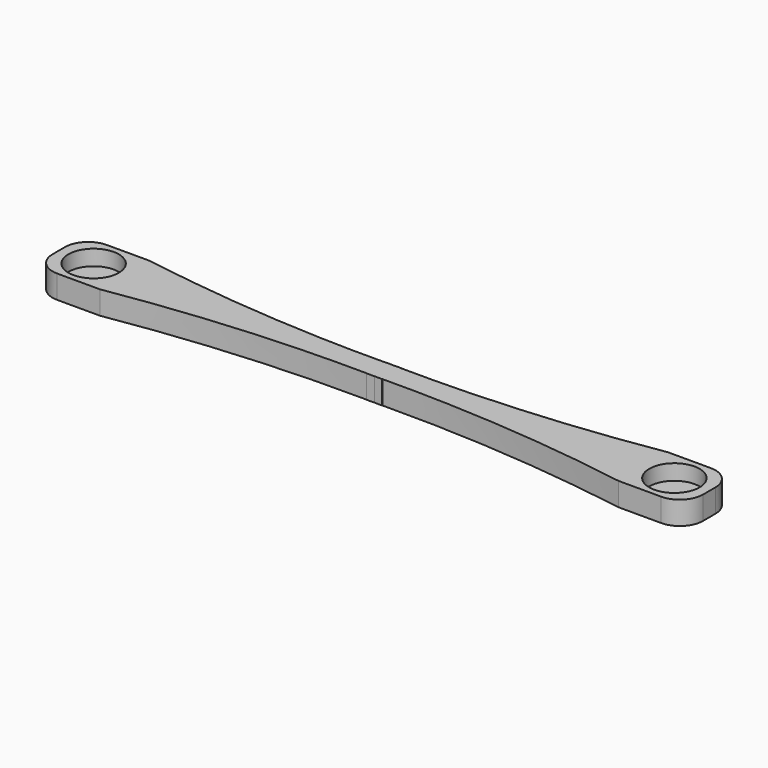
from build123d import *

# Parameters (mm, degrees)
BOX129_W                          = 90
BOX129_H                          = 9
BOX129_DEPTH                      = 4
BOX128_W                          = 40
BOX128_H                          = 10
BOX128_DEPTH                      = 10
CYLINDER218_R                     = 3.25
CYLINDER218_DEPTH                 = 3.5
CYLINDER219_R                     = 0.6
CYLINDER219_DEPTH                 = 9.5
CYLINDER214_R                     = 0.6
CYLINDER214_DEPTH                 = 9.5
CYLINDER216_R                     = 3.25
CYLINDER216_DEPTH                 = 3.5
PAD019_DEPTH                      = 4
FILLET088_R                       = 3
PART_MIRRORING005_PLACEMENT_ANGLE = 180
BOX127_W                          = 40
BOX127_H                          = 10
BOX127_DEPTH                      = 10
CYLINDER220_R                     = 3.25
CYLINDER220_DEPTH                 = 3.5
CYLINDER213_R                     = 0.6
CYLINDER213_DEPTH                 = 9.5
CYLINDER215_R                     = 0.6
CYLINDER215_DEPTH                 = 9.5
CYLINDER217_R                     = 3.25
CYLINDER217_DEPTH                 = 3.5
PAD018_DEPTH                      = 4
FILLET089_R                       = 3


with BuildPart() as obj1:
    # Box129 → Box129 (new body)
    with BuildSketch(Plane(origin=(-63, -27.5, -41), x_dir=(1, 0, 0), z_dir=(0, 0, 1))):
        with Locations((45, 4.5)):
            Rectangle(BOX129_W, BOX129_H)
    extrude(amount=BOX129_DEPTH)


with BuildPart() as obj2:
    # Box128 → Box128 (new body)
    with BuildSketch(Plane(origin=(-14, -72, -42), x_dir=(1, 0, 0), z_dir=(0, 0, 1))):
        with Locations((20, 5)):
            Rectangle(BOX128_W, BOX128_H)
    extrude(amount=BOX128_DEPTH)


with BuildPart() as zylinder218:
    # Cylinder218 → Cylinder218 (new body)
    with BuildSketch(Plane(origin=(-52.5, 23, -36), x_dir=(1, 0, 0), z_dir=(0, 0, 1))):
        Circle(CYLINDER218_R)
    extrude(amount=CYLINDER218_DEPTH)


with BuildPart() as zylinder219:
    # Cylinder219 → Cylinder219 (new body)
    with BuildSketch(Plane(origin=(16.5, 23, -39), x_dir=(1, 0, 0), z_dir=(0, 0, 1))):
        Circle(CYLINDER219_R)
    extrude(amount=CYLINDER219_DEPTH)


with BuildPart() as zylinder214:
    # Cylinder214 → Cylinder214 (new body)
    with BuildSketch(Plane(origin=(-52.5, 23, -39), x_dir=(1, 0, 0), z_dir=(0, 0, 1))):
        Circle(CYLINDER214_R)
    extrude(amount=CYLINDER214_DEPTH)


with BuildPart() as fusion138:
    # Cylinder216 → Cylinder216 (new body)
    with BuildSketch(Plane(origin=(16.5, 23, -36), x_dir=(1, 0, 0), z_dir=(0, 0, 1))):
        Circle(CYLINDER216_R)
    extrude(amount=CYLINDER216_DEPTH)

    # Fusion138: union Zylinder218, Zylinder219, Zylinder214
    add(zylinder218.part)
    add(zylinder219.part)
    add(zylinder214.part)


with BuildPart() as cut096:
    # Sketch018 → Pad019 (new body)
    with BuildSketch(Plane.XY):
        with BuildLine():
            add(Edge.make_bspline(
                [(-48.5, 19), (-18, 24), (12.5, 19)],
                knots=[0, 0, 0, 1, 1, 1], degree=2))
            Line((-48.5, 19), (-57, 19))
            Line((-57, 19), (-57, 27))
            Line((-57, 27), (-48.5, 27))
            add(Edge.make_bspline(
                [(-48.5, 27), (-18, 22), (12.5, 27)],
                knots=[0, 0, 0, 1, 1, 1], degree=2))
            Line((12.5, 27), (21, 27))
            Line((21, 27), (21, 19))
            Line((21, 19), (12.5, 19))
        make_face()
    extrude(amount=PAD019_DEPTH)


with BuildPart() as cut096_1:
    # Body009 placement: moved
    add(cut096.part.moved(Location((0, 0, -38))))

    # Cut094: cut Fusion138
    add(fusion138.part, mode=Mode.SUBTRACT)

    # Fillet088
    fillet088_edges = [cut096_1.edges().sort_by_distance(p)[0] for p in [
        (-57, 19, -36),
        (21, 19, -36),
        (-57, 27, -36),
        (21, 27, -36),
    ]]
    fillet(fillet088_edges, radius=FILLET088_R)


with BuildPart() as cut096_2:
    # Fillet088 placement: moved
    add(cut096_1.part.moved(Location((0, -90, 0))))

    # Cut096: cut obj2
    add(obj2.part, mode=Mode.SUBTRACT)


with BuildPart() as cut096_3:
    # Cut096 placement: moved
    add(cut096_2.part.moved(Location((-5, 35, 0))))


with BuildPart() as part_mirroring005:
    # Part__Mirroring005: instance of Cut096
    add(cut096_3.part.mirror(Plane(origin=(-40.5, -8e-06, -36), x_dir=(1, 0, 0), z_dir=(0, 1, 0))))


with BuildPart() as part_mirroring005_1:
    # Part__Mirroring005 placement: moved
    add(part_mirroring005.part.moved(Location((-38, 9, 0))).rotate(Axis((-38, 9, 0), (0, 0, 1)), PART_MIRRORING005_PLACEMENT_ANGLE))


with BuildPart() as obj3:
    # Box127 → Box127 (new body)
    with BuildSketch(Plane(origin=(-14, -72, -42), x_dir=(1, 0, 0), z_dir=(0, 0, 1))):
        with Locations((20, 5)):
            Rectangle(BOX127_W, BOX127_H)
    extrude(amount=BOX127_DEPTH)


with BuildPart() as zylinder220:
    # Cylinder220 → Cylinder220 (new body)
    with BuildSketch(Plane(origin=(-52.5, 23, -36), x_dir=(1, 0, 0), z_dir=(0, 0, 1))):
        Circle(CYLINDER220_R)
    extrude(amount=CYLINDER220_DEPTH)


with BuildPart() as zylinder213:
    # Cylinder213 → Cylinder213 (new body)
    with BuildSketch(Plane(origin=(16.5, 23, -39), x_dir=(1, 0, 0), z_dir=(0, 0, 1))):
        Circle(CYLINDER213_R)
    extrude(amount=CYLINDER213_DEPTH)


with BuildPart() as zylinder215:
    # Cylinder215 → Cylinder215 (new body)
    with BuildSketch(Plane(origin=(-52.5, 23, -39), x_dir=(1, 0, 0), z_dir=(0, 0, 1))):
        Circle(CYLINDER215_R)
    extrude(amount=CYLINDER215_DEPTH)


with BuildPart() as fusion137:
    # Cylinder217 → Cylinder217 (new body)
    with BuildSketch(Plane(origin=(16.5, 23, -36), x_dir=(1, 0, 0), z_dir=(0, 0, 1))):
        Circle(CYLINDER217_R)
    extrude(amount=CYLINDER217_DEPTH)

    # Fusion137: union Zylinder220, Zylinder213, Zylinder215
    add(zylinder220.part)
    add(zylinder213.part)
    add(zylinder215.part)


with BuildPart() as cut092:
    # Sketch019 → Pad018 (new body)
    with BuildSketch(Plane.XY):
        with BuildLine():
            add(Edge.make_bspline(
                [(-48.5, 19), (-18, 24), (12.5, 19)],
                knots=[0, 0, 0, 1, 1, 1], degree=2))
            Line((-48.5, 19), (-57, 19))
            Line((-57, 19), (-57, 27))
            Line((-57, 27), (-48.5, 27))
            add(Edge.make_bspline(
                [(-48.5, 27), (-18, 22), (12.5, 27)],
                knots=[0, 0, 0, 1, 1, 1], degree=2))
            Line((12.5, 27), (21, 27))
            Line((21, 27), (21, 19))
            Line((21, 19), (12.5, 19))
        make_face()
    extrude(amount=PAD018_DEPTH)


with BuildPart() as cut092_1:
    # Body010 placement: moved
    add(cut092.part.moved(Location((0, 0, -38))))

    # Cut095: cut Fusion137
    add(fusion137.part, mode=Mode.SUBTRACT)

    # Fillet089
    fillet089_edges = [cut092_1.edges().sort_by_distance(p)[0] for p in [
        (-57, 19, -36),
        (21, 19, -36),
        (-57, 27, -36),
        (21, 27, -36),
    ]]
    fillet(fillet089_edges, radius=FILLET089_R)


with BuildPart() as cut092_2:
    # Fillet089 placement: moved
    add(cut092_1.part.moved(Location((0, -90, 0))))

    # Cut093: cut obj3
    add(obj3.part, mode=Mode.SUBTRACT)


with BuildPart() as cut092_3:
    # Cut093 placement: moved
    add(cut092_2.part.moved(Location((-3, 44, 0))))

    # Fusion139: union Part__Mirroring005
    add(part_mirroring005_1.part)

    # Cut092: cut obj1
    add(obj1.part, mode=Mode.SUBTRACT)


with BuildPart() as cut092_4:
    # Cut092 placement: moved
    add(cut092_3.part.moved(Location((0, 46, 0))))


solid = cut092_4.part
